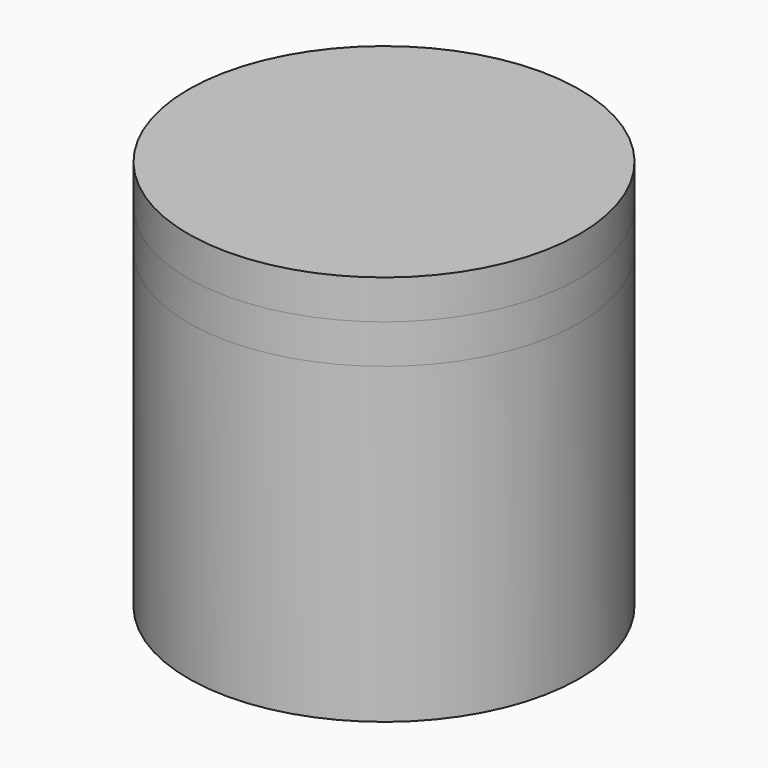
from build123d import *

# Parameters (mm, degrees)
F0_R     = 50
F1_DEPTH = 20
F2_R     = 50
F3_DEPTH = 20
F4_DEPTH = 100
F5_DEPTH = 20
F6_DEPTH = 10
F7_DEPTH = 10


with BuildPart() as f1:
    # F0 (on Top) → F1 (new body)
    with BuildSketch(Plane.XY):
        Circle(F0_R)
    extrude(amount=F1_DEPTH)


with BuildPart() as f3:
    # F2 (on face) → F3 (new body)
    with BuildSketch(Plane.XY.offset(20)):
        Circle(F2_R)
    extrude(amount=F3_DEPTH)


with BuildPart() as f4:
    # F0 (on Top) → F4 (new body)
    with BuildSketch(Plane.XY):
        Circle(F0_R)
    extrude(amount=F4_DEPTH)


with BuildPart() as f5:
    # F5 (new): a face of the model
    f5_faces = [f4.part.faces().sort_by_distance(p)[0] for p in [
        (0, 0, 100),
    ]]
    extrude(f5_faces, amount=-F5_DEPTH)


with BuildPart() as f6:
    # F6 (new): a face of the model
    f6_faces = [f5.part.faces().sort_by_distance(p)[0] for p in [
        (0, 0, 100),
    ]]
    extrude(f6_faces, amount=-F6_DEPTH)


with BuildPart() as f7:
    # F7 (new): a face of the model
    f7_faces = [f6.part.faces().sort_by_distance(p)[0] for p in [
        (0, 0, 90),
    ]]
    extrude(f7_faces, amount=F7_DEPTH)


solid = Compound([f1.part, f3.part, f4.part, f5.part, f6.part, f7.part])
